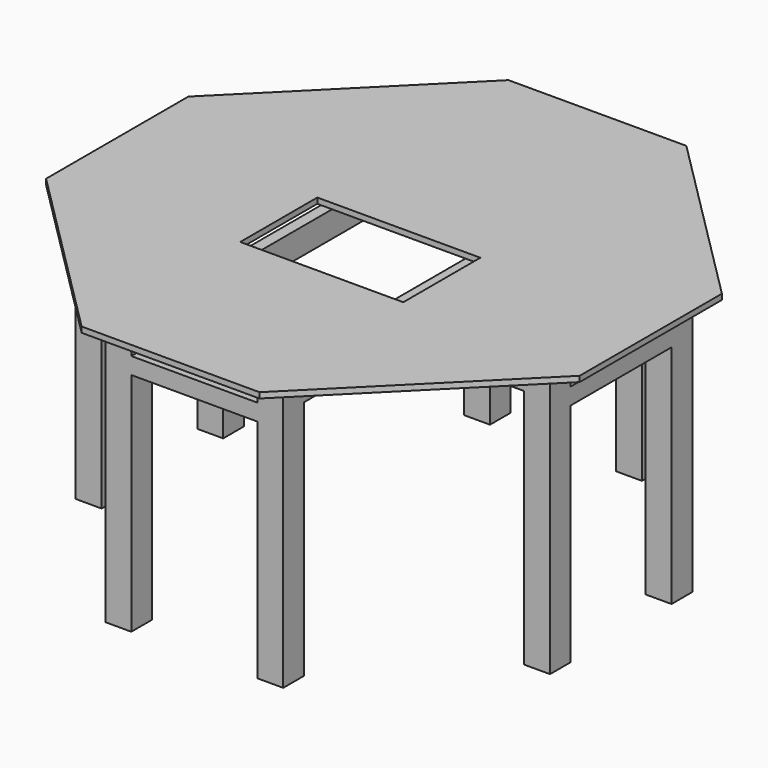
from build123d import *

# Parameters (mm, degrees)
F0_W      = 558.8
F0_H      = 330.2
F1_DEPTH  = 19.05
F2_W      = 38.1
F2_H      = 419.1
F2_H_2    = 203.2
F2_H_3    = 330.2
F3_DEPTH  = 88.9
F4_W      = 88.9
F4_H      = 88.9
F5_DEPTH  = 914.4
F6_W      = 38.1
F6_H      = 431.8
F6_W_2    = 431.8
F6_H_2    = 38.1
F7_DEPTH  = 139.7
F8_W      = 431.8
F8_H      = 69.85
F9_DEPTH  = 78.74
F10_W     = 431.8
F10_H     = 69.85
F11_DEPTH = 66.04
F12_W     = 431.8
F12_H     = 69.85
F13_DEPTH = 53.34
F14_W     = 431.8
F14_H     = 69.85
F15_DEPTH = 76.2


with BuildPart() as f1:
    # F0 (on Top) → F1 (new body)
    with BuildSketch(Plane.XY):
        Polygon((-907.6019599199, 71.2758600712), (-298.0019599199, -538.3241399288), (311.5980400801, -538.3241399288), (921.1980400801, 71.2758600712), (921.1980400801, 680.8758600712), (311.5980400801, 1290.4758600712), (-298.0019599199, 1290.4758600712), (-907.6019599199, 680.8758600712), align=None)
        with Locations((6.7980400801, 274.4758600712)):
            Rectangle(F0_W, F0_H, mode=Mode.SUBTRACT)
    extrude(amount=F1_DEPTH)

    # F2 (on face) → F3 (join)
    with BuildSketch(Plane(origin=(0, 0, 0), x_dir=(1, 0, 0), z_dir=(0, 0, -1))):
        with Locations((-278.9519599199, -890.4258600712)):
            Rectangle(F2_W, F2_H)
        with Locations((292.5480400801, -890.4258600712)):
            Rectangle(F2_W, F2_H)
        Polygon((-717.1019599199, -642.7758600712), (-717.1019599199, -680.8758600712), (-298.0019599199, -680.8758600712), (-259.9019599199, -680.8758600712), (273.4980400801, -680.8758600712), (311.5980400801, -680.8758600712), (730.6980400801, -680.8758600712), (730.6980400801, -642.7758600712), (273.4980400801, -642.7758600712), (235.3980400801, -642.7758600712), (-221.8019599199, -642.7758600712), (-259.9019599199, -642.7758600712), align=None)
        with Locations((-240.8519599199, -541.1758600712)):
            Rectangle(F2_W, F2_H_2)
        Polygon((-298.0019599199, -71.2758600712), (-717.1019599199, -71.2758600712), (-717.1019599199, -109.3758600712), (-272.6019599199, -109.3758600712), (-259.9019599199, -109.3758600712), (-221.8019599199, -109.3758600712), (235.3980400801, -109.3758600712), (273.4980400801, -109.3758600712), (286.1980400801, -109.3758600712), (730.6980400801, -109.3758600712), (730.6980400801, -71.2758600712), (311.5980400801, -71.2758600712), (273.4980400801, -71.2758600712), (-259.9019599199, -71.2758600712), align=None)
        with Locations((-278.9519599199, 138.2741399288)):
            Rectangle(F2_W, F2_H)
        with Locations((292.5480400801, 138.2741399288)):
            Rectangle(F2_W, F2_H)
        with Locations((254.4480400801, -541.1758600712)):
            Rectangle(F2_W, F2_H_2)
        with Locations((-240.8519599199, -274.4758600712)):
            Rectangle(F2_W, F2_H_3)
        with Locations((254.4480400801, -274.4758600712)):
            Rectangle(F2_W, F2_H_3)
    extrude(amount=F3_DEPTH)

    # F4 (on face) → F5 (join)
    with BuildSketch(Plane(origin=(0, 0, 0), x_dir=(1, 0, 0), z_dir=(0, 0, -1))):
        with Locations((775.1480400801, -636.4258600712)):
            Rectangle(F4_W, F4_H)
        with Locations((775.1480400801, -115.7258600712)):
            Rectangle(F4_W, F4_H)
        with Locations((267.1480400801, -1144.4258600712)):
            Rectangle(F4_W, F4_H)
        with Locations((-761.5519599199, -636.4258600712)):
            Rectangle(F4_W, F4_H)
        with Locations((-253.5519599199, -1144.4258600712)):
            Rectangle(F4_W, F4_H)
        with Locations((267.1480400801, 392.2741399288)):
            Rectangle(F4_W, F4_H)
        with Locations((-253.5519599199, 392.2741399288)):
            Rectangle(F4_W, F4_H)
        with Locations((-761.5519599199, -115.7258600712)):
            Rectangle(F4_W, F4_H)
    extrude(amount=F5_DEPTH)

    # F6 (on face) → F7 (join)
    with BuildSketch(Plane(origin=(0, 0, 0), x_dir=(1, 0, 0), z_dir=(0, 0, -1))):
        with Locations((800.5480400801, -376.0758600712)):
            Rectangle(F6_W, F6_H)
        with Locations((-786.9519599199, -376.0758600712)):
            Rectangle(F6_W, F6_H)
        with Locations((6.7980400801, -1169.8258600712)):
            Rectangle(F6_W_2, F6_H_2)
        with Locations((6.7980400801, 417.6741399288)):
            Rectangle(F6_W_2, F6_H_2)
    extrude(amount=F7_DEPTH)

    # F8 (on face) → F9 (cut)
    with BuildSketch(Plane.XZ.offset(436.7241399288)):
        with Locations((6.7980400801, -47.625)):
            Rectangle(F8_W, F8_H)
    extrude(amount=-F9_DEPTH, mode=Mode.SUBTRACT)

    # F10 (on face) → F11 (cut)
    with BuildSketch(Plane(origin=(-806.0019599199, 0, 0), x_dir=(0, -1, 0), z_dir=(-1, 0, 0))):
        with Locations((-376.0758600712, -47.625)):
            Rectangle(F10_W, F10_H)
    extrude(amount=-F11_DEPTH, mode=Mode.SUBTRACT)

    # F12 (on face) → F13 (cut)
    with BuildSketch(Plane.YZ.offset(819.5980400801)):
        with Locations((376.0758600712, -47.625)):
            Rectangle(F12_W, F12_H)
    extrude(amount=-F13_DEPTH, mode=Mode.SUBTRACT)

    # F14 (on face) → F15 (cut)
    with BuildSketch(Plane(origin=(0, 1188.8758600712, 0), x_dir=(-1, 0, 0), z_dir=(0, 1, 0))):
        with Locations((-6.7980400801, -47.625)):
            Rectangle(F14_W, F14_H)
    extrude(amount=-F15_DEPTH, mode=Mode.SUBTRACT)


solid = f1.part
